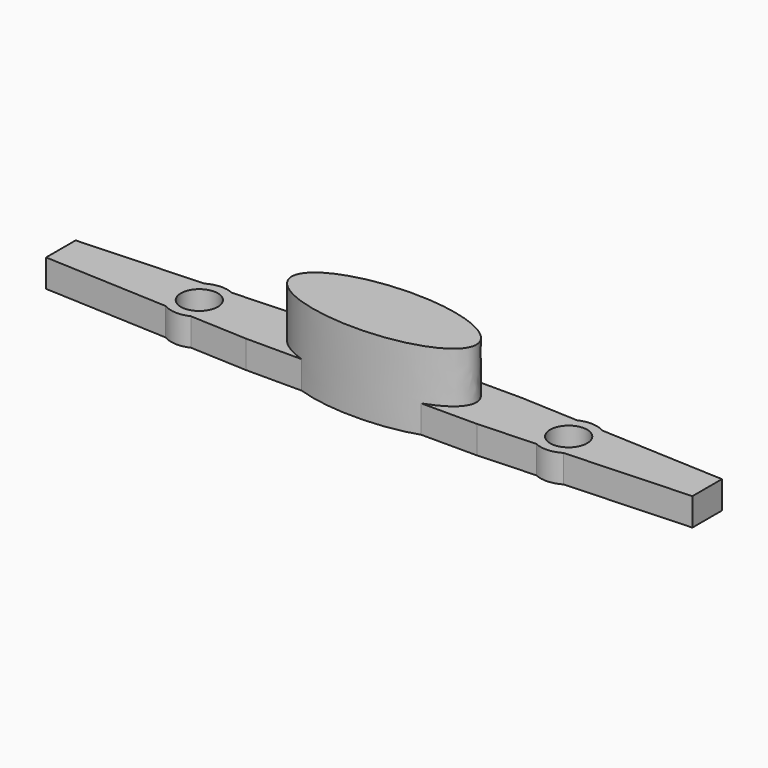
from build123d import *

# Parameters (mm, degrees)
F0_R     = 4
F1_DEPTH = 6
F2_DEPTH = 17


with BuildPart() as f1:
    # F0 (on Top) → F1 (new body)
    with BuildSketch(Plane.XY):
        with BuildLine():
            ThreePointArc((-43.096752955, -5.2554848621), (-46.1, 0), (-43.096752955, 5.2554848621))
            Line((-43.096752955, 5.2554848621), (-70, 4))
            Line((-70, 4), (-70, 0))
            Line((-70, 0), (-70, -4))
            Line((-70, -4), (-43.096752955, -5.2554848621))
        make_face()
        with BuildLine():
            Line((-43.096752955, 5.2554848621), (-37.4061518301, 5.5210462479))
            ThreePointArc((-37.4061518301, 5.5210462479), (-40.2843572017, 6.0933686071), (-43.096752955, 5.2554848621))
        make_face()
        with BuildLine():
            ThreePointArc((-43.096752955, -5.2554848621), (-40.2843572017, -6.0933686071), (-37.4061518301, -5.5210462479))
            Line((-37.4061518301, -5.5210462479), (-43.096752955, -5.2554848621))
        make_face()
        with BuildLine():
            add(Edge.make_bspline(
                [(-12.9397642946, 6.1), (-30.9124641603, 0), (-12.9397642946, -6.1)],
                knots=[2.2744242295, 2.2744242295, 2.2744242295, 4.0087610776, 4.0087610776, 4.0087610776], degree=2, weights=[1, 0.6469882147, 1]))
            Line((-12.9397642946, 6.1), (-25, 6.1))
            Line((-25, 6.1), (-37.4061518301, 5.5210462479))
            ThreePointArc((-37.4061518301, 5.5210462479), (-34.8506081021, 3.2701319671), (-33.9, 0))
            ThreePointArc((-33.9, 0), (-34.8506081021, -3.2701319671), (-37.4061518301, -5.5210462479))
            Line((-37.4061518301, -5.5210462479), (-25, -6.1))
            Line((-25, -6.1), (-12.9397642946, -6.1))
        make_face()
        with BuildLine():
            ThreePointArc((-33.9, 0), (-34.8506081021, 3.2701319671), (-37.4061518301, 5.5210462479))
            Line((-37.4061518301, 5.5210462479), (-43.096752955, 5.2554848621))
            ThreePointArc((-43.096752955, 5.2554848621), (-46.1, 0), (-43.096752955, -5.2554848621))
            Line((-43.096752955, -5.2554848621), (-37.4061518301, -5.5210462479))
            ThreePointArc((-37.4061518301, -5.5210462479), (-34.8506081021, -3.2701319671), (-33.9, 0))
        make_face()
        with Locations((-40, 0)):
            Circle(F0_R, mode=Mode.SUBTRACT)
    extrude(amount=F1_DEPTH)



with BuildPart() as f1b:
    # F0 (on Top) → F1, piece 2 (new body)
    with BuildSketch(Plane.XY):
        with BuildLine():
            Line((70, 4), (43.096752955, 5.2554848621))
            ThreePointArc((43.096752955, 5.2554848621), (45.2962341822, 3.0265332457), (46.1, 0))
            ThreePointArc((46.1, 0), (45.2962341822, -3.0265332457), (43.096752955, -5.2554848621))
            Line((43.096752955, -5.2554848621), (70, -4))
            Line((70, -4), (70, 0))
            Line((70, 0), (70, 4))
        make_face()
        with BuildLine():
            Line((43.096752955, -5.2554848621), (37.4061518301, -5.5210462479))
            ThreePointArc((37.4061518301, -5.5210462479), (40.2843572017, -6.0933686071), (43.096752955, -5.2554848621))
        make_face()
        with BuildLine():
            ThreePointArc((43.096752955, 5.2554848621), (40.2843572017, 6.0933686071), (37.4061518301, 5.5210462479))
            Line((37.4061518301, 5.5210462479), (43.096752955, 5.2554848621))
        make_face()
        with BuildLine():
            add(Edge.make_bspline(
                [(20, 0), (20, 3.7037302061), (12.9397642946, 6.1)],
                knots=[0, 0, 0, 0.8671684241, 0.8671684241, 0.8671684241], degree=2, weights=[1, 0.907465761, 1]))
            add(Edge.make_bspline(
                [(12.9397642946, -6.1), (20, -3.7037302061), (20, 0)],
                knots=[5.4160168831, 5.4160168831, 5.4160168831, 6.2831853072, 6.2831853072, 6.2831853072], degree=2, weights=[1, 0.907465761, 1]))
            Line((12.9397642946, -6.1), (25, -6.1))
            Line((25, -6.1), (37.4061518301, -5.5210462479))
            ThreePointArc((37.4061518301, -5.5210462479), (33.9, 0), (37.4061518301, 5.5210462479))
            Line((37.4061518301, 5.5210462479), (25, 6.1))
            Line((25, 6.1), (12.9397642946, 6.1))
        make_face()
        with BuildLine():
            Line((43.096752955, 5.2554848621), (37.4061518301, 5.5210462479))
            ThreePointArc((37.4061518301, 5.5210462479), (33.9, 0), (37.4061518301, -5.5210462479))
            Line((37.4061518301, -5.5210462479), (43.096752955, -5.2554848621))
            ThreePointArc((43.096752955, -5.2554848621), (45.2962341822, -3.0265332457), (46.1, 0))
            ThreePointArc((46.1, 0), (45.2962341822, 3.0265332457), (43.096752955, 5.2554848621))
        make_face()
        with Locations((40, 0)):
            Circle(F0_R, mode=Mode.SUBTRACT)
    extrude(amount=F1_DEPTH)


with BuildPart() as f1_1:
    add(f1.part)

    add(f1b.part)  # F2 merges F1b
    # F0 (on Top) → F2 (join)
    with BuildSketch(Plane.XY):
        with BuildLine():
            add(Edge.make_bspline(
                [(12.9397642946, -6.1), (20, -3.7037302061), (20, 0)],
                knots=[5.4160168831, 5.4160168831, 5.4160168831, 6.2831853072, 6.2831853072, 6.2831853072], degree=2, weights=[1, 0.907465761, 1]))
            add(Edge.make_bspline(
                [(20, 0), (20, 3.7037302061), (12.9397642946, 6.1)],
                knots=[0, 0, 0, 0.8671684241, 0.8671684241, 0.8671684241], degree=2, weights=[1, 0.907465761, 1]))
            add(Edge.make_bspline(
                [(12.9397642946, 6.1), (0, 10.4918032787), (-12.9397642946, 6.1)],
                knots=[0.8671684241, 0.8671684241, 0.8671684241, 2.2744242295, 2.2744242295, 2.2744242295], degree=2, weights=[1, 0.7625, 1]))
            add(Edge.make_bspline(
                [(-12.9397642946, 6.1), (-30.9124641603, 0), (-12.9397642946, -6.1)],
                knots=[2.2744242295, 2.2744242295, 2.2744242295, 4.0087610776, 4.0087610776, 4.0087610776], degree=2, weights=[1, 0.6469882147, 1]))
            add(Edge.make_bspline(
                [(-12.9397642946, -6.1), (0, -10.4918032787), (12.9397642946, -6.1)],
                knots=[4.0087610776, 4.0087610776, 4.0087610776, 5.4160168831, 5.4160168831, 5.4160168831], degree=2, weights=[1, 0.7625, 1]))
        make_face()
    extrude(amount=F2_DEPTH)


solid = f1_1.part
